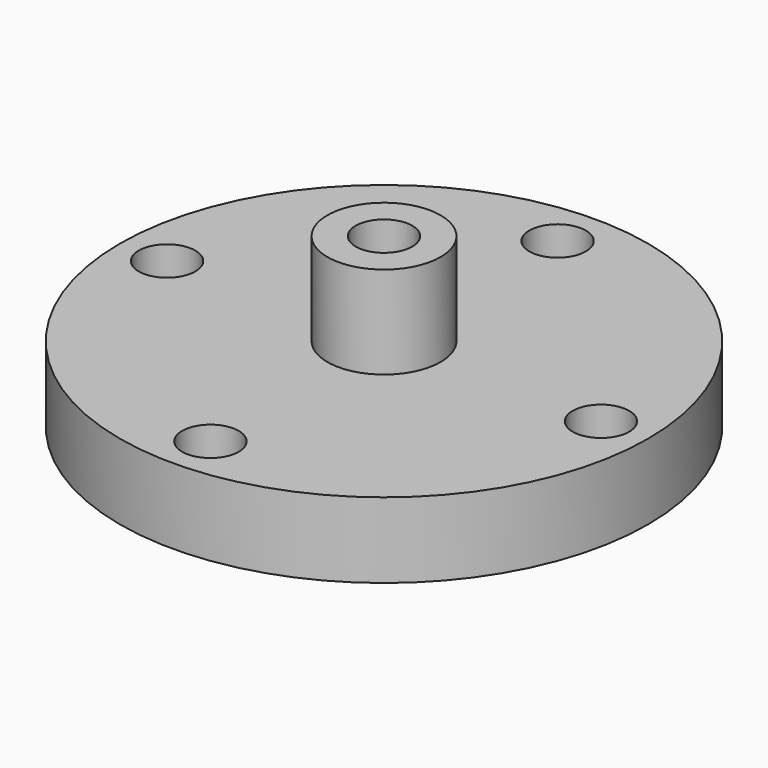
from build123d import *

# Parameters (mm, degrees)
SKETCH003_R   = 1.5
PAD003_DEPTH  = 8.9
SKETCH002_R   = 3
PAD002_DEPTH  = 4.9
SKETCH001_R   = 14
SKETCH001_R_2 = 1.5
PAD001_DEPTH  = 4


with BuildPart() as body003:
    # Sketch003 → Pad003 (new body)
    with BuildSketch(Plane.XY):
        Circle(SKETCH003_R)
    extrude(amount=PAD003_DEPTH)


with BuildPart() as body002:
    # Sketch002 (on DatumPlane) → Pad002 (new body)
    with BuildSketch(Plane.XY.offset(4)):
        Circle(SKETCH002_R)
    extrude(amount=PAD002_DEPTH)


with BuildPart() as cut:
    # Sketch001 → Pad001 (new body)
    with BuildSketch(Plane.XY):
        Circle(SKETCH001_R)
        with Locations((-11.5, 0)):
            Circle(SKETCH001_R_2, mode=Mode.SUBTRACT)
        with Locations((11.5, 0)):
            Circle(SKETCH001_R_2, mode=Mode.SUBTRACT)
        with Locations((0, 11.5)):
            Circle(SKETCH001_R_2, mode=Mode.SUBTRACT)
        with Locations((0, -11.5)):
            Circle(SKETCH001_R_2, mode=Mode.SUBTRACT)
    extrude(amount=PAD001_DEPTH)

    # Fusion: union Body002
    add(body002.part)

    # Cut: cut Body003
    add(body003.part, mode=Mode.SUBTRACT)


solid = cut.part
